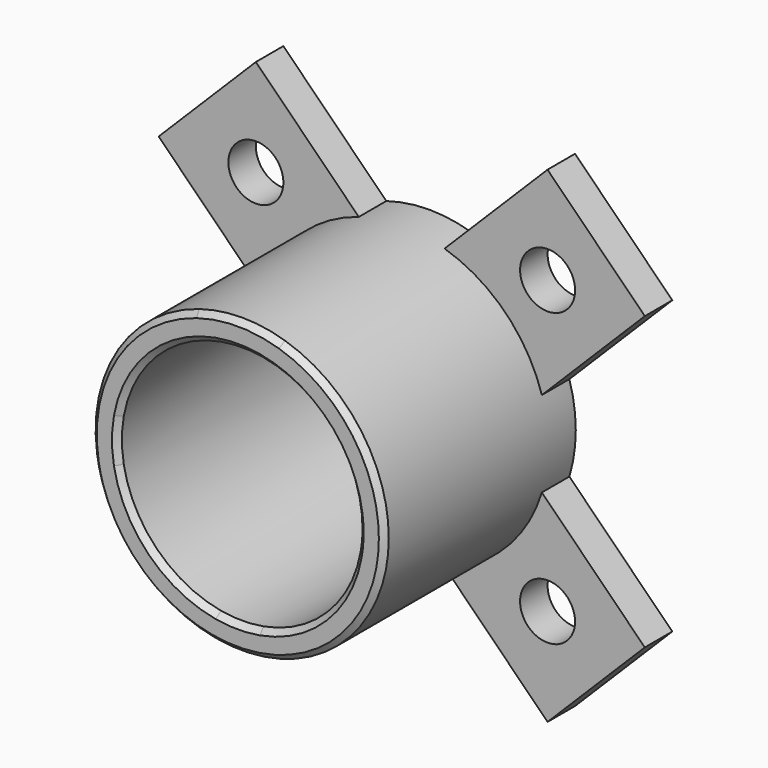
from build123d import *

# Parameters (mm, degrees)
F0_R     = 1.27
F1_DEPTH = 1.5875
F2_DEPTH = 11.0500585288
F3_SIZE  = 0.254


with BuildPart() as f1:
    # F0 (on Front) → F1 (new body)
    with BuildSketch(Plane.XZ):
        with BuildLine():
            Line((-6.7335235308, -11.2269887114), (-1.9790852934, -6.4725504739))
            ThreePointArc((-1.9790852934, -6.4725504739), (-4.785952791, -4.785952791), (-6.4725504739, -1.9790852934))
            Line((-6.4725504739, -1.9790852934), (-11.2269887114, -6.7335235308))
            Line((-11.2269887114, -6.7335235308), (-6.7335235308, -11.2269887114))
        make_face()
        with Locations((-6.7335235308, -6.7368606508)):
            Circle(F0_R, mode=Mode.SUBTRACT)
        with BuildLine():
            Line((6.7351920908, -11.2253201513), (11.2253201513, -6.7351920908))
            Line((11.2253201513, -6.7351920908), (6.4717686116, -1.9816405511))
            ThreePointArc((6.4717686116, -1.9816405511), (4.785952791, -4.785952791), (1.9816405511, -6.4717686116))
            Line((1.9816405511, -6.4717686116), (6.7351920908, -11.2253201513))
        make_face()
        with Locations((6.7351920908, -6.7351920908)):
            Circle(F0_R, mode=Mode.SUBTRACT)
        with BuildLine():
            Line((-11.2253201513, 6.7351920908), (-6.4717686116, 1.9816405511))
            ThreePointArc((-6.4717686116, 1.9816405511), (-4.785952791, 4.785952791), (-1.9816405511, 6.4717686116))
            Line((-1.9816405511, 6.4717686116), (-6.7351920908, 11.2253201513))
            Line((-6.7351920908, 11.2253201513), (-11.2253201513, 6.7351920908))
        make_face()
        with Locations((-6.7351920908, 6.7351920908)):
            Circle(F0_R, mode=Mode.SUBTRACT)
        with BuildLine():
            ThreePointArc((1.9790852934, 6.4725504739), (4.785952791, 4.785952791), (6.4725504739, 1.9790852934))
            Line((6.4725504739, 1.9790852934), (11.2269887114, 6.7335235308))
            Line((11.2269887114, 6.7335235308), (6.7335235308, 11.2269887114))
            Line((6.7335235308, 11.2269887114), (1.9790852934, 6.4725504739))
        make_face()
        with Locations((6.7368606508, 6.7335235308)):
            Circle(F0_R, mode=Mode.SUBTRACT)
        with BuildLine():
            ThreePointArc((-1.9790852934, -6.4725504739), (0.0013360998, -6.7683592141), (1.9816405511, -6.4717686116))
            Line((1.9816405511, -6.4717686116), (0.9791637116, -5.4692917721))
            ThreePointArc((0.9791637116, -5.4692917721), (0.001437958, -5.5562498139), (-0.9763326742, -5.4697978547))
            Line((-0.9763326742, -5.4697978547), (-1.9790852934, -6.4725504739))
        make_face()
        with BuildLine():
            ThreePointArc((1.9816405511, -6.4717686116), (4.785952791, -4.785952791), (6.4717686116, -1.9816405511))
            Line((6.4717686116, -1.9816405511), (5.4692917721, -0.9791637116))
            ThreePointArc((5.4692917721, -0.9791637116), (3.928862053, -3.928862053), (0.9791637116, -5.4692917721))
            Line((0.9791637116, -5.4692917721), (1.9816405511, -6.4717686116))
        make_face()
        with BuildLine():
            ThreePointArc((-6.4725504739, -1.9790852934), (-4.785952791, -4.785952791), (-1.9790852934, -6.4725504739))
            Line((-1.9790852934, -6.4725504739), (-0.9763326742, -5.4697978547))
            ThreePointArc((-0.9763326742, -5.4697978547), (-3.928862053, -3.928862053), (-5.4697978547, -0.9763326742))
            Line((-5.4697978547, -0.9763326742), (-6.4725504739, -1.9790852934))
        make_face()
        with BuildLine():
            Line((5.4692917721, -0.9791637116), (6.4717686116, -1.9816405511))
            ThreePointArc((6.4717686116, -1.9816405511), (6.6938010055, -1.001856444), (6.7683593459, 0))
            ThreePointArc((6.7683593459, 0), (6.6939986454, 1.0005350428), (6.4725504739, 1.9790852934))
            Line((6.4725504739, 1.9790852934), (5.4697978547, 0.9763326742))
            ThreePointArc((5.4697978547, 0.9763326742), (5.5345947635, 0.4900763879), (5.55625, 0))
            ThreePointArc((5.55625, 0), (5.5344677464, -0.4915087251), (5.4692917721, -0.9791637116))
        make_face()
        with BuildLine():
            Line((5.4697978547, 0.9763326742), (6.4725504739, 1.9790852934))
            ThreePointArc((6.4725504739, 1.9790852934), (4.785952791, 4.785952791), (1.9790852934, 6.4725504739))
            Line((1.9790852934, 6.4725504739), (0.9763326742, 5.4697978547))
            ThreePointArc((0.9763326742, 5.4697978547), (3.928862053, 3.928862053), (5.4697978547, 0.9763326742))
        make_face()
        with BuildLine():
            Line((0.9763326742, 5.4697978547), (1.9790852934, 6.4725504739))
            ThreePointArc((1.9790852934, 6.4725504739), (-0.0013360998, 6.7683592141), (-1.9816405511, 6.4717686116))
            Line((-1.9816405511, 6.4717686116), (-0.9791637116, 5.4692917721))
            ThreePointArc((-0.9791637116, 5.4692917721), (-0.001437958, 5.5562498139), (0.9763326742, 5.4697978547))
        make_face()
        with BuildLine():
            ThreePointArc((-6.4717686116, 1.9816405511), (-6.7683592141, 0.0013360998), (-6.4725504739, -1.9790852934))
            Line((-6.4725504739, -1.9790852934), (-5.4697978547, -0.9763326742))
            ThreePointArc((-5.4697978547, -0.9763326742), (-5.5562498139, 0.001437958), (-5.4692917721, 0.9791637116))
            Line((-5.4692917721, 0.9791637116), (-6.4717686116, 1.9816405511))
        make_face()
        with BuildLine():
            ThreePointArc((-5.4692917721, 0.9791637116), (-3.928862053, 3.928862053), (-0.9791637116, 5.4692917721))
            Line((-0.9791637116, 5.4692917721), (-1.9816405511, 6.4717686116))
            ThreePointArc((-1.9816405511, 6.4717686116), (-4.785952791, 4.785952791), (-6.4717686116, 1.9816405511))
            Line((-6.4717686116, 1.9816405511), (-5.4692917721, 0.9791637116))
        make_face()
    extrude(amount=F1_DEPTH)

    # F0 (on Front) → F2 (join)
    with BuildSketch(Plane.XZ):
        with BuildLine():
            Line((5.4697978547, 0.9763326742), (6.4725504739, 1.9790852934))
            ThreePointArc((6.4725504739, 1.9790852934), (4.785952791, 4.785952791), (1.9790852934, 6.4725504739))
            Line((1.9790852934, 6.4725504739), (0.9763326742, 5.4697978547))
            ThreePointArc((0.9763326742, 5.4697978547), (3.928862053, 3.928862053), (5.4697978547, 0.9763326742))
        make_face()
        with BuildLine():
            Line((5.4692917721, -0.9791637116), (6.4717686116, -1.9816405511))
            ThreePointArc((6.4717686116, -1.9816405511), (6.6938010055, -1.001856444), (6.7683593459, 0))
            ThreePointArc((6.7683593459, 0), (6.6939986454, 1.0005350428), (6.4725504739, 1.9790852934))
            Line((6.4725504739, 1.9790852934), (5.4697978547, 0.9763326742))
            ThreePointArc((5.4697978547, 0.9763326742), (5.5345947635, 0.4900763879), (5.55625, 0))
            ThreePointArc((5.55625, 0), (5.5344677464, -0.4915087251), (5.4692917721, -0.9791637116))
        make_face()
        with BuildLine():
            ThreePointArc((1.9816405511, -6.4717686116), (4.785952791, -4.785952791), (6.4717686116, -1.9816405511))
            Line((6.4717686116, -1.9816405511), (5.4692917721, -0.9791637116))
            ThreePointArc((5.4692917721, -0.9791637116), (3.928862053, -3.928862053), (0.9791637116, -5.4692917721))
            Line((0.9791637116, -5.4692917721), (1.9816405511, -6.4717686116))
        make_face()
        with BuildLine():
            ThreePointArc((-1.9790852934, -6.4725504739), (0.0013360998, -6.7683592141), (1.9816405511, -6.4717686116))
            Line((1.9816405511, -6.4717686116), (0.9791637116, -5.4692917721))
            ThreePointArc((0.9791637116, -5.4692917721), (0.001437958, -5.5562498139), (-0.9763326742, -5.4697978547))
            Line((-0.9763326742, -5.4697978547), (-1.9790852934, -6.4725504739))
        make_face()
        with BuildLine():
            ThreePointArc((-6.4725504739, -1.9790852934), (-4.785952791, -4.785952791), (-1.9790852934, -6.4725504739))
            Line((-1.9790852934, -6.4725504739), (-0.9763326742, -5.4697978547))
            ThreePointArc((-0.9763326742, -5.4697978547), (-3.928862053, -3.928862053), (-5.4697978547, -0.9763326742))
            Line((-5.4697978547, -0.9763326742), (-6.4725504739, -1.9790852934))
        make_face()
        with BuildLine():
            ThreePointArc((-6.4717686116, 1.9816405511), (-6.7683592141, 0.0013360998), (-6.4725504739, -1.9790852934))
            Line((-6.4725504739, -1.9790852934), (-5.4697978547, -0.9763326742))
            ThreePointArc((-5.4697978547, -0.9763326742), (-5.5562498139, 0.001437958), (-5.4692917721, 0.9791637116))
            Line((-5.4692917721, 0.9791637116), (-6.4717686116, 1.9816405511))
        make_face()
        with BuildLine():
            ThreePointArc((-5.4692917721, 0.9791637116), (-3.928862053, 3.928862053), (-0.9791637116, 5.4692917721))
            Line((-0.9791637116, 5.4692917721), (-1.9816405511, 6.4717686116))
            ThreePointArc((-1.9816405511, 6.4717686116), (-4.785952791, 4.785952791), (-6.4717686116, 1.9816405511))
            Line((-6.4717686116, 1.9816405511), (-5.4692917721, 0.9791637116))
        make_face()
        with BuildLine():
            Line((0.9763326742, 5.4697978547), (1.9790852934, 6.4725504739))
            ThreePointArc((1.9790852934, 6.4725504739), (-0.0013360998, 6.7683592141), (-1.9816405511, 6.4717686116))
            Line((-1.9816405511, 6.4717686116), (-0.9791637116, 5.4692917721))
            ThreePointArc((-0.9791637116, 5.4692917721), (-0.001437958, 5.5562498139), (0.9763326742, 5.4697978547))
        make_face()
    extrude(amount=F2_DEPTH)

    # F3
    f3_edges = [f1.edges().sort_by_distance(p)[0] for p in [
        (-1.979085, -11.050059, -6.47255),
        (0.979164, -11.050059, -5.469292),
    ]]
    chamfer(f3_edges, length=F3_SIZE)


solid = f1.part
